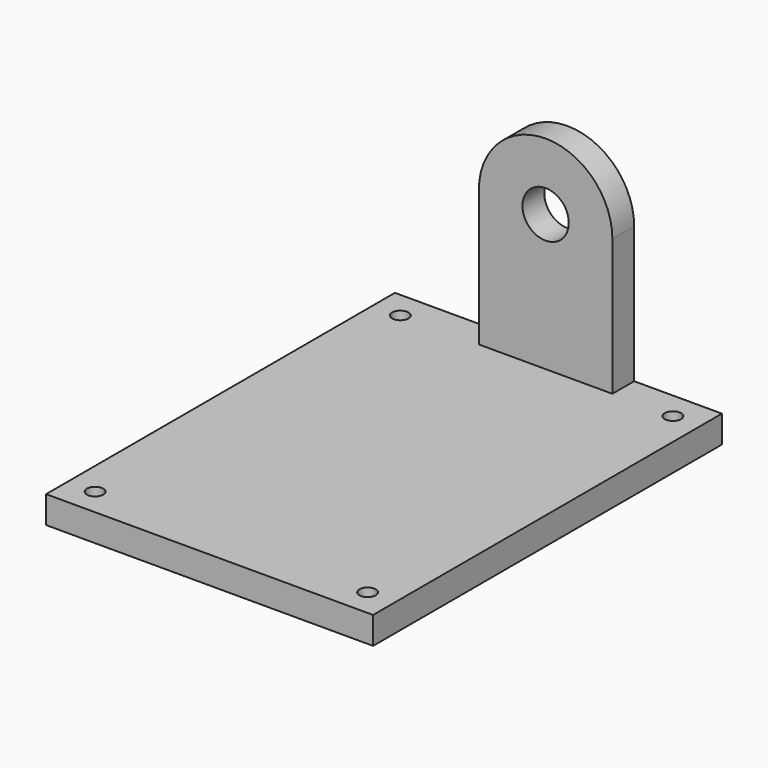
from build123d import *

# Parameters (mm, degrees)
SKETCH007_R   = 1.7
PAD004_DEPTH  = 2
SKETCH009_W   = 32
SKETCH009_H   = 24
PAD005_DEPTH  = 2
SKETCH010_R   = 0.6
HOLE001_DEPTH = 25


with BuildPart() as part:
    # Sketch007 (on Face8 of ShapeBinder001) → Pad004 (new body)
    with BuildSketch(Plane(origin=(2, -20, 0), x_dir=(0, 0, -1), z_dir=(0, -1, 0))):
        with BuildLine():
            ThreePointArc((5, 9.9), (0.1, 5), (5, 0.1))
            Line((15, 0.1), (5, 0.1))
            Line((15, 9.9), (15, 0.1))
            Line((5, 9.9), (15, 9.9))
        make_face()
        with Locations((5, 5)):
            Circle(SKETCH007_R, mode=Mode.SUBTRACT)
    extrude(amount=PAD004_DEPTH)

    # Sketch009 (on Face4 of Pad004) → Pad005 (join)
    with BuildSketch(Plane(origin=(2, 0, -15), x_dir=(0, 1, 0), z_dir=(0, 0, -1))):
        with Locations((-36, 4.339121)):
            Rectangle(SKETCH009_W, SKETCH009_H)
    extrude(amount=PAD005_DEPTH)

    # Sketch010 (on Face10 of Pad005) → Hole001 (cut)
    with BuildSketch(Plane(origin=(2, 0, -17), x_dir=(0, 1, 0), z_dir=(0, 0, -1))):
        with Locations((-50, 14.339121)):
            Circle(SKETCH010_R)
        with Locations((-22, 14.339121)):
            Circle(SKETCH010_R)
        with Locations((-22, -5.660879)):
            Circle(SKETCH010_R)
        with Locations((-50, -5.660879)):
            Circle(SKETCH010_R)
    extrude(amount=-HOLE001_DEPTH, mode=Mode.SUBTRACT)


solid = part.part
